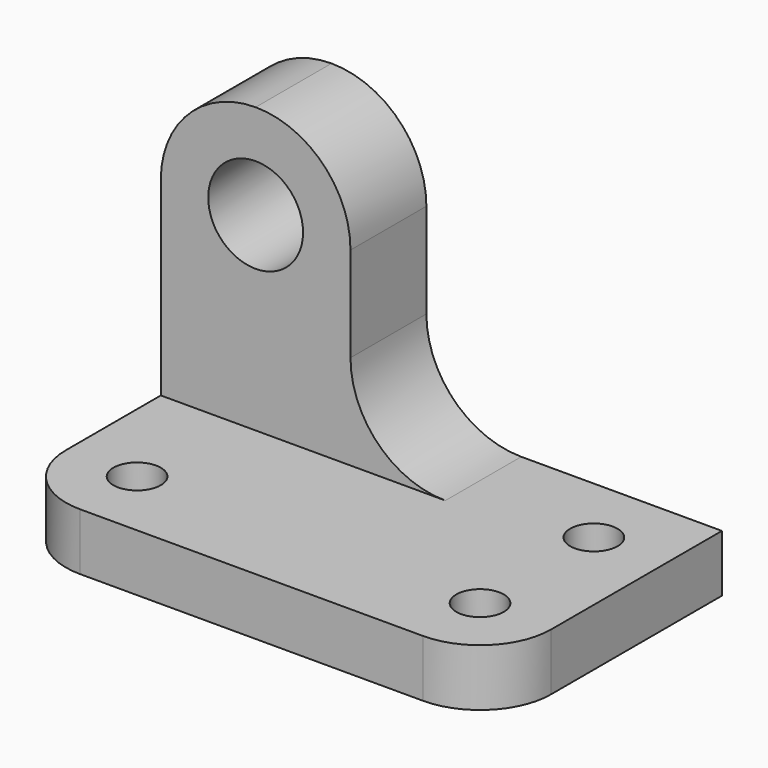
from build123d import *

# Parameters (mm, degrees)
F0_W     = 64.9693608284
F0_H     = 45.7421503961
F1_DEPTH = 38.1
F3_DEPTH = 38.1
F4_R     = 6.35
F5_DEPTH = 25.4
F6_R     = 3.175
F7_DEPTH = 25.4


with BuildPart() as f1:
    # F0 (on Front) → F1 (new body)
    with BuildSketch(Plane.XZ):
        with Locations((32.4846804142, 22.8710751981)):
            Rectangle(F0_W, F0_H)
    extrude(amount=-F1_DEPTH)

    # F2 (on face) → F3 (cut)
    with BuildSketch(Plane.XY.offset(45.7421503961)):
        Polygon((38.1, 25.4), (0, 25.4), (0, 0), (64.9693608284, 0), (64.9693608284, 38.1), (38.1, 38.1), align=None)
    extrude(amount=-F3_DEPTH, mode=Mode.SUBTRACT)

    # F4 (on face) → F5 (cut)
    with BuildSketch(Plane.XZ.offset(-25.4)):
        with Locations((12.7, 33.0421503961)):
            Circle(F4_R)
        with BuildLine():
            ThreePointArc((12.6999999513, 45.7421503961), (21.6802561039, 42.0224065344), (25.4, 33.0421503961))
            Line((25.4, 33.0421503961), (25.4, 20.3421503961))
            ThreePointArc((25.4, 20.3421503961), (29.1197438789, 11.361894275), (38.1, 7.6421503961))
            Line((38.1, 7.6421503961), (38.1, 45.7421503961))
            Line((38.1, 45.7421503961), (12.6999999513, 45.7421503961))
        make_face()
        with BuildLine():
            ThreePointArc((0, 33.0421503961), (3.7197438617, 42.0224065), (12.6999999513, 45.7421503961))
            Line((12.6999999513, 45.7421503961), (0, 45.7421503961))
            Line((0, 45.7421503961), (0, 33.0421503961))
        make_face()
    extrude(amount=-F5_DEPTH, mode=Mode.SUBTRACT)

    # F6 (on face) → F7 (cut)
    with BuildSketch(Plane.XY.offset(7.6421503961)):
        with Locations((9.525, 9.525)):
            Circle(F6_R)
        with Locations((55.4443608284, 9.525)):
            Circle(F6_R)
        with Locations((55.4443608284, 28.575)):
            Circle(F6_R)
        with BuildLine():
            ThreePointArc((64.9693608284, 9.525), (62.1795529192, 2.7898079092), (55.4443608284, 0))
            Line((55.4443608284, 0), (64.9693608284, 0))
            Line((64.9693608284, 0), (64.9693608284, 9.525))
        make_face()
        with BuildLine():
            ThreePointArc((9.525, 0), (2.7898079092, 2.7898079092), (0, 9.525))
            Line((0, 9.525), (0, 0))
            Line((0, 0), (9.525, 0))
        make_face()
    extrude(amount=-F7_DEPTH, mode=Mode.SUBTRACT)


solid = f1.part
